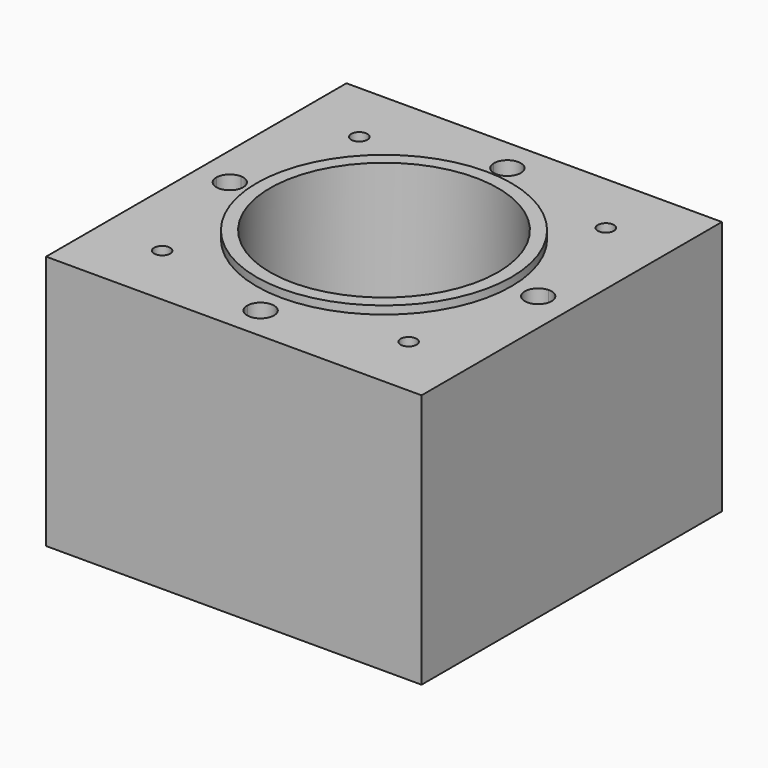
from build123d import *

# Parameters (mm, degrees)
F0_W           = 140
F0_H           = 140
F0_R           = 42.5
F1_DEPTH       = 95
F2_R           = 47.5
F2_R_2         = 42.5
F3_DEPTH       = 3
F4_R           = 47.5
F4_R_2         = 42.5
F5_DEPTH       = 3
F8_DEPTH       = 98.001
F9_D           = 6
F9_CBORE_D     = 20
F9_CBORE_DEPTH = 30


with BuildPart() as f1:
    # F0 (on Top) → F1 (new body)
    with BuildSketch(Plane.XY):
        Rectangle(F0_W, F0_H)
        Circle(F0_R, mode=Mode.SUBTRACT)
    extrude(amount=F1_DEPTH)

    # F2 (on face) → F3 (join)
    with BuildSketch(Plane.XY.offset(95)):
        Circle(F2_R)
        Circle(F2_R_2, mode=Mode.SUBTRACT)
    extrude(amount=F3_DEPTH)

    # F4 (on face) → F5 (cut)
    with BuildSketch(Plane(origin=(0, 0, 0), x_dir=(1, 0, 0), z_dir=(0, 0, -1))):
        Circle(F4_R)
        Circle(F4_R_2, mode=Mode.SUBTRACT)
    extrude(amount=-F5_DEPTH, mode=Mode.SUBTRACT)

    # F7 (on face) → F8 (cut, through all)
    with BuildSketch(Plane(origin=(0, 0, 0), x_dir=(1, 0, 0), z_dir=(0, 0, -1))):
        with BuildLine():
            ThreePointArc((-62.5, 0), (-60.957820374, -3.6115755926), (-57.2826086957, -4.9952718666))
            ThreePointArc((-57.2826086957, -4.9952718666), (-57.4456264654, -2.5), (-57.5, 0))
            Line((-57.5, 0), (-62.5, 0))
        make_face()
        with BuildLine():
            ThreePointArc((-57.5, 0), (-57.4456264654, -2.5), (-57.2826086957, -4.9952718666))
            ThreePointArc((-57.2826086957, -4.9952718666), (-53.8884244074, -3.457820374), (-52.5, 0))
            Line((-52.5, 0), (-57.5, 0))
        make_face()
        with BuildLine():
            ThreePointArc((-52.5, 0), (-53.8884244074, 3.457820374), (-57.2826086957, 4.9952718666))
            ThreePointArc((-57.2826086957, 4.9952718666), (-57.4456264654, 2.5), (-57.5, 0))
            Line((-57.5, 0), (-52.5, 0))
        make_face()
        with BuildLine():
            ThreePointArc((-57.5, 0), (-57.4456264654, 2.5), (-57.2826086957, 4.9952718666))
            ThreePointArc((-57.2826086957, 4.9952718666), (-60.957820374, 3.6115755926), (-62.5, 0))
            Line((-62.5, 0), (-57.5, 0))
        make_face()
        with BuildLine():
            ThreePointArc((-4.9952718666, -57.2826086957), (0, -57.5), (4.9952718666, -57.2826086957))
            ThreePointArc((4.9952718666, -57.2826086957), (0, -52.5), (-4.9952718666, -57.2826086957))
        make_face()
        with BuildLine():
            ThreePointArc((5, -57.5), (4.9988178269, -57.3912786423), (4.9952718666, -57.2826086957))
            ThreePointArc((4.9952718666, -57.2826086957), (0, -57.5), (-4.9952718666, -57.2826086957))
            ThreePointArc((-4.9952718666, -57.2826086957), (-0.1087213577, -62.4988178269), (5, -57.5))
        make_face()
        with BuildLine():
            ThreePointArc((57.2826086957, 4.9952718666), (57.4456264654, 2.5), (57.5, 0))
            ThreePointArc((57.5, 0), (57.4456264654, -2.5), (57.2826086957, -4.9952718666))
            ThreePointArc((57.2826086957, -4.9952718666), (60.957820374, -3.6115755926), (62.5, 0))
            ThreePointArc((62.5, 0), (60.957820374, 3.6115755926), (57.2826086957, 4.9952718666))
        make_face()
        with BuildLine():
            ThreePointArc((57.2826086957, -4.9952718666), (57.4456264654, -2.5), (57.5, 0))
            ThreePointArc((57.5, 0), (57.4456264654, 2.5), (57.2826086957, 4.9952718666))
            ThreePointArc((57.2826086957, 4.9952718666), (52.5, 0), (57.2826086957, -4.9952718666))
        make_face()
        with BuildLine():
            ThreePointArc((-4.9952718666, 57.2826086957), (0, 52.5), (4.9952718666, 57.2826086957))
            ThreePointArc((4.9952718666, 57.2826086957), (0, 57.5), (-4.9952718666, 57.2826086957))
        make_face()
        with BuildLine():
            ThreePointArc((-4.9952718666, 57.2826086957), (0, 57.5), (4.9952718666, 57.2826086957))
            ThreePointArc((4.9952718666, 57.2826086957), (4.9988178269, 57.3912786423), (5, 57.5))
            ThreePointArc((5, 57.5), (-0.1087213577, 62.4988178269), (-4.9952718666, 57.2826086957))
        make_face()
    extrude(amount=-F8_DEPTH, mode=Mode.SUBTRACT)

    # F9 (through all)
    with Locations(Plane(origin=(0, 0, 0), x_dir=(1, 0, 0), z_dir=(0, 0, -1))):
        with Locations((-45.9619407771, -45.9619407771), (-45.9619407771, 45.9619407771), (45.9619407771, -45.9619407771), (45.9619407771, 45.9619407771)):
            CounterBoreHole(F9_D / 2, F9_CBORE_D / 2, F9_CBORE_DEPTH)


solid = f1.part
